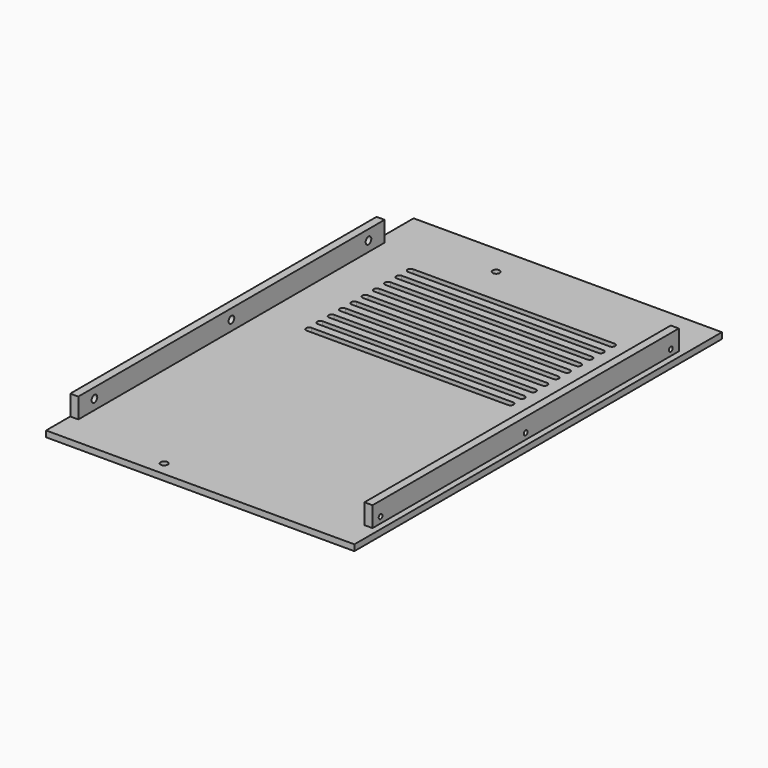
from build123d import *

# Parameters (mm, degrees)
SKETCH_W        = 153
SKETCH_H        = 228
SKETCH_R        = 1.75
PAD_DEPTH       = 3
SKETCH001_W     = 4
SKETCH001_H     = 190
PAD001_DEPTH    = 10
SKETCH002_R     = 1.75
POCKET_DEPTH    = 5
SKETCH003_R     = 1.15
POCKET001_DEPTH = 5


with BuildPart() as part:
    # Sketch → Pad (new body)
    with BuildSketch(Plane.XY):
        with Locations((0, 4)):
            Rectangle(SKETCH_W, SKETCH_H)
        with Locations((-23.5, 103)):
            Circle(SKETCH_R, mode=Mode.SUBTRACT)
        with Locations((-23.5, -103)):
            Circle(SKETCH_R, mode=Mode.SUBTRACT)
        with BuildLine():
            ThreePointArc((-50, 84.5), (-51.5, 83), (-50, 81.5))
            Line((-50, 81.5), (50, 81.5))
            ThreePointArc((50, 81.5), (51.5, 83), (50, 84.5))
            Line((-50, 84.5), (50, 84.5))
        make_face(mode=Mode.SUBTRACT)
        with BuildLine():
            ThreePointArc((-50, 77.5), (-51.5, 76), (-50, 74.5))
            Line((-50, 74.5), (50, 74.5))
            ThreePointArc((50, 74.5), (51.5, 76), (50, 77.5))
            Line((-50, 77.5), (50, 77.5))
        make_face(mode=Mode.SUBTRACT)
        with BuildLine():
            ThreePointArc((-50, 70.5), (-51.5, 69), (-50, 67.5))
            Line((-50, 67.5), (50, 67.5))
            ThreePointArc((50, 67.5), (51.5, 69), (50, 70.5))
            Line((-50, 70.5), (50, 70.5))
        make_face(mode=Mode.SUBTRACT)
        with BuildLine():
            ThreePointArc((-50, 63.5), (-51.5, 62), (-50, 60.5))
            Line((-50, 60.5), (50, 60.5))
            ThreePointArc((50, 60.5), (51.5, 62), (50, 63.5))
            Line((-50, 63.5), (50, 63.5))
        make_face(mode=Mode.SUBTRACT)
        with BuildLine():
            ThreePointArc((-50, 56.5), (-51.5, 55), (-50, 53.5))
            Line((-50, 53.5), (50, 53.5))
            ThreePointArc((50, 53.5), (51.5, 55), (50, 56.5))
            Line((-50, 56.5), (50, 56.5))
        make_face(mode=Mode.SUBTRACT)
        with BuildLine():
            ThreePointArc((-50, 49.5), (-51.5, 48), (-50, 46.5))
            Line((-50, 46.5), (50, 46.5))
            ThreePointArc((50, 46.5), (51.5, 48), (50, 49.5))
            Line((-50, 49.5), (50, 49.5))
        make_face(mode=Mode.SUBTRACT)
        with BuildLine():
            ThreePointArc((-50, 42.5), (-51.5, 41), (-50, 39.5))
            Line((-50, 39.5), (50, 39.5))
            ThreePointArc((50, 39.5), (51.5, 41), (50, 42.5))
            Line((-50, 42.5), (50, 42.5))
        make_face(mode=Mode.SUBTRACT)
        with BuildLine():
            ThreePointArc((-50, 35.5), (-51.5, 34), (-50, 32.5))
            Line((-50, 32.5), (50, 32.5))
            ThreePointArc((50, 32.5), (51.5, 34), (50, 35.5))
            Line((-50, 35.5), (50, 35.5))
        make_face(mode=Mode.SUBTRACT)
        with BuildLine():
            ThreePointArc((-50, 28.5), (-51.5, 27), (-50, 25.5))
            Line((-50, 25.5), (50, 25.5))
            ThreePointArc((50, 25.5), (51.5, 27), (50, 28.5))
            Line((-50, 28.5), (50, 28.5))
        make_face(mode=Mode.SUBTRACT)
        with BuildLine():
            ThreePointArc((-50, 21.5), (-51.5, 20), (-50, 18.5))
            Line((-50, 18.5), (50, 18.5))
            ThreePointArc((50, 18.5), (51.5, 20), (50, 21.5))
            Line((-50, 21.5), (50, 21.5))
        make_face(mode=Mode.SUBTRACT)
    extrude(amount=PAD_DEPTH)

    # Sketch001 → Pad001 (join)
    with BuildSketch(Plane.XY.offset(3)):
        with Locations((-74.5, 0)):
            Rectangle(SKETCH001_W, SKETCH001_H)
        with Locations((71.5, 0)):
            Rectangle(SKETCH001_W, SKETCH001_H)
    extrude(amount=PAD001_DEPTH)

    # Sketch002 → Pocket (cut)
    with BuildSketch(Plane.YZ.offset(-76.5)):
        with Locations((-85, 8)):
            Circle(SKETCH002_R)
        with Locations((0, 8)):
            Circle(SKETCH002_R)
        with Locations((85, 8)):
            Circle(SKETCH002_R)
    extrude(amount=POCKET_DEPTH, mode=Mode.SUBTRACT)

    # Sketch003 → Pocket001 (cut)
    with BuildSketch(Plane.YZ.offset(73.5)):
        with Locations((-90, 6)):
            Circle(SKETCH003_R)
        with Locations((0, 6)):
            Circle(SKETCH003_R)
        with Locations((90, 6)):
            Circle(SKETCH003_R)
    extrude(amount=-POCKET001_DEPTH, mode=Mode.SUBTRACT)


solid = part.part
